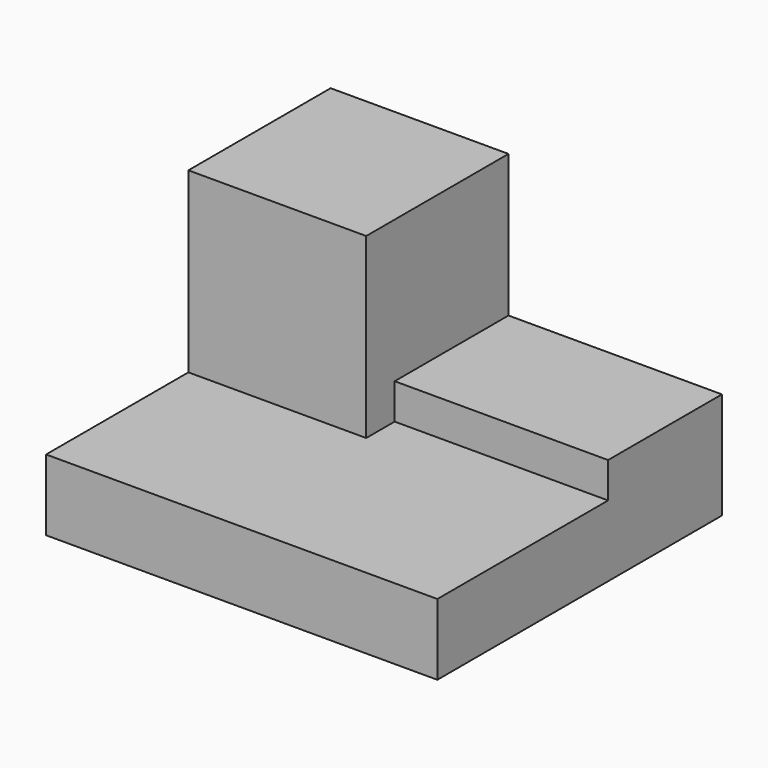
from build123d import *

# Parameters (mm, degrees)
F0_W     = 55
F0_H     = 50
F1_DEPTH = 10
F2_W     = 25
F2_H     = 25
F3_DEPTH = 25
F4_W     = 20
F4_H     = 5
F5_DEPTH = 30


with BuildPart() as f1:
    # F0 (on Top) → F1 (new body)
    with BuildSketch(Plane.XY):
        Rectangle(F0_W, F0_H)
    extrude(amount=F1_DEPTH)

    # F2 (on face) → F3 (join)
    with BuildSketch(Plane.XY.offset(10)):
        with Locations((-15, 12.5)):
            Rectangle(F2_W, F2_H)
    extrude(amount=F3_DEPTH)

    # F4 (on face) → F5 (join, through all)
    with BuildSketch(Plane.YZ.offset(-2.5)):
        with Locations((15, 12.5)):
            Rectangle(F4_W, F4_H)
    extrude(amount=F5_DEPTH)


solid = f1.part
